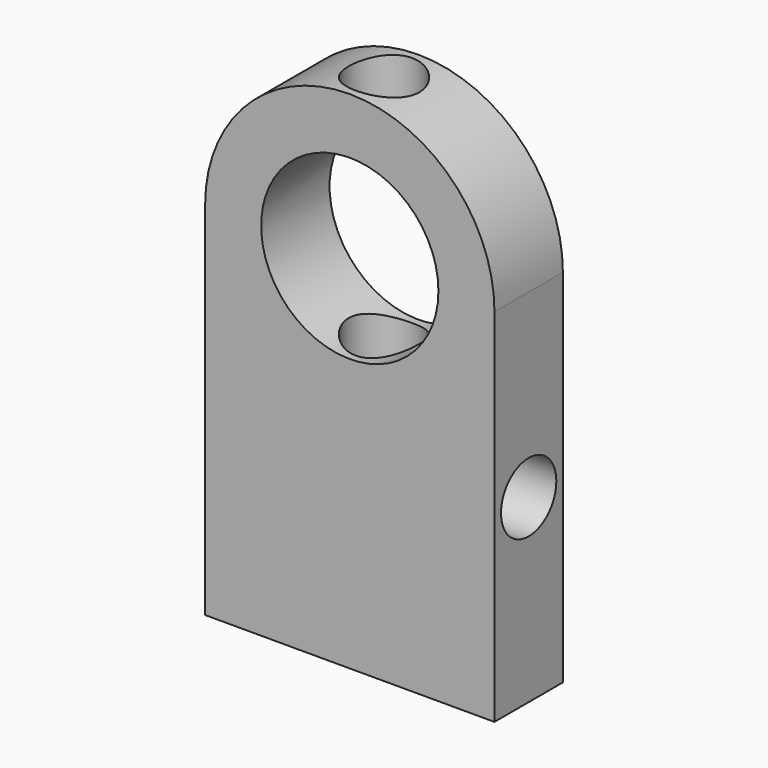
from build123d import *

# Parameters (mm, degrees)
F0_R     = 26.320977
F1_DEPTH = 12.7
F2_R     = 10.467506
F3_DEPTH = 150.167553
F4_R     = 10.266834
F5_DEPTH = 85.92307


with BuildPart() as f1:
    # F0 (on Front) → F1 (new body, symmetric)
    with BuildSketch(Plane.XZ):
        with BuildLine():
            Line((-42.961035, -53.602759), (42.961035, -53.602759))
            Line((42.961035, -53.602759), (42.961035, 53.602759))
            ThreePointArc((42.961035, 53.602759), (0, 96.563794), (-42.961035, 53.602759))
            Line((-42.961035, 53.602759), (-42.961035, -53.602759))
        make_face()
        with Locations((0, 53.602759)):
            Circle(F0_R, mode=Mode.SUBTRACT)
    extrude(amount=F1_DEPTH, both=True)

    # F2 (on face) → F3 (cut, through all)
    with BuildSketch(Plane(origin=(0, 0, -53.602759), x_dir=(1, 0, 0), z_dir=(0, 0, -1))):
        Circle(F2_R)
    extrude(amount=-F3_DEPTH, mode=Mode.SUBTRACT)

    # F4 (on face) → F5 (cut, through all)
    with BuildSketch(Plane.YZ.offset(42.961035)):
        Circle(F4_R)
    extrude(amount=-F5_DEPTH, mode=Mode.SUBTRACT)


solid = f1.part
